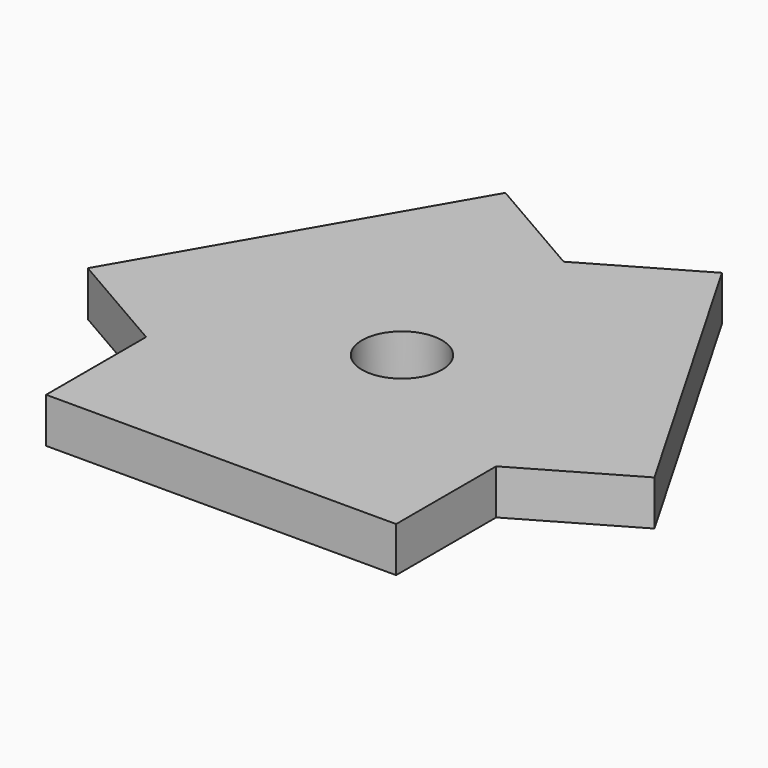
from build123d import *

# Parameters (mm, degrees)
F1_DEPTH = 9
F2_DEPTH = 25
F3_DEPTH = 25
F4_DEPTH = 25
F5_R     = 8
F6_DEPTH = 25


with BuildPart() as f1:
    # F0 (on Top) → F1 (new body)
    with BuildSketch(Plane.XY):
        Polygon((-35, -20.2072594216), (35, -20.2072594216), (0, 40.4145188433), align=None)
    extrude(amount=F1_DEPTH)

    # F2 (add): a face of the model
    f2_faces = [f1.faces().sort_by_distance(p)[0] for p in [
        (0, -20.2072594216, 4.5),
    ]]
    extrude(f2_faces, amount=F2_DEPTH)

    # F3 (add): a face of the model
    f3_faces = [f1.faces().sort_by_distance(p)[0] for p in [
        (17.5, 10.1036297108, 4.5),
    ]]
    extrude(f3_faces, amount=F3_DEPTH)

    # F4 (add): a face of the model
    f4_faces = [f1.faces().sort_by_distance(p)[0] for p in [
        (-17.5, 10.1036297108, 4.5),
    ]]
    extrude(f4_faces, amount=F4_DEPTH)

    # F5 (on face) → F6 (cut)
    with BuildSketch(Plane.XY.offset(9)):
        Circle(F5_R)
    extrude(amount=-F6_DEPTH, mode=Mode.SUBTRACT)


solid = f1.part
